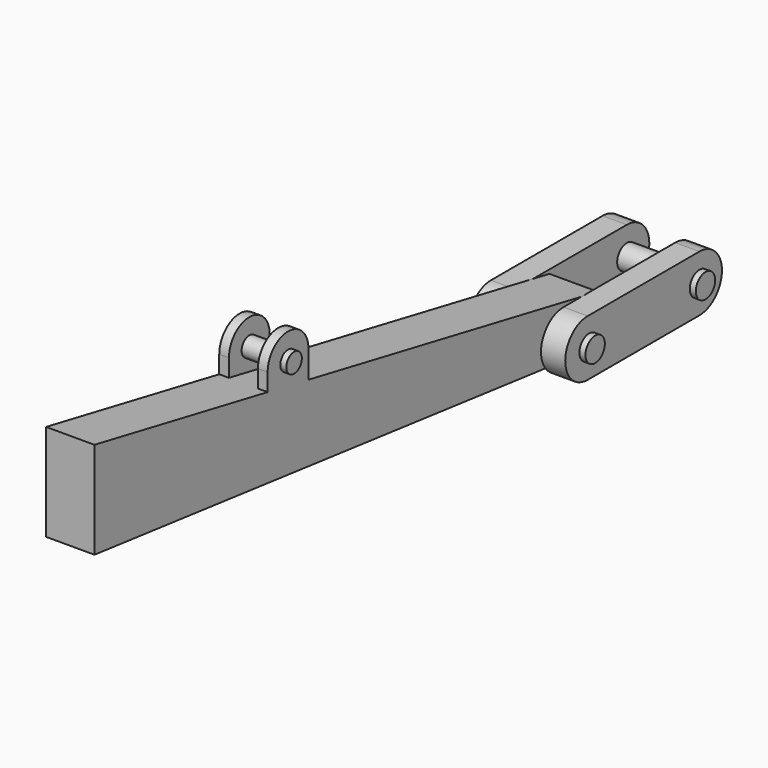
from build123d import *

# Parameters (mm, degrees)
PAD_DEPTH         = 0.1
PAD001_DEPTH      = 0.1
CYLINDER001_R     = 0.05
CYLINDER001_DEPTH = 0.45
PAD002_DEPTH      = 0.1
CYLINDER003_R     = 0.04
CYLINDER003_DEPTH = 0.25
PAD004_DEPTH      = 0.04
PAD003_DEPTH      = 0.1
PAD005_DEPTH      = 0.04
CYLINDER_R        = 0.05
CYLINDER_DEPTH    = 0.45


with BuildPart() as pad:
    # Sketch → Pad (new body, symmetric)
    with BuildSketch(Plane.YZ):
        Polygon((0, 0.6), (0, 0.2), (2.6, -0.1), (2.6, 0.1), align=None)
    extrude(amount=PAD_DEPTH, both=True)


with BuildPart() as pad001:
    # Sketch001 → Pad001 (new body)
    with BuildSketch(Plane.YZ.offset(0.1)):
        with BuildLine():
            ThreePointArc((2.422852, 0.116102), (2.306749, 0), (2.422851, -0.116102))
            Line((2.422851, -0.116102), (3.000007, -0.116102))
            ThreePointArc((3.000007, -0.116102), (3.116109, 0), (3.000007, 0.116102))
            Line((2.422852, 0.116102), (3.000007, 0.116102))
        make_face()
    extrude(amount=PAD001_DEPTH)


with BuildPart() as cylinder001:
    # Cylinder001 → Cylinder001 (new body)
    with BuildSketch(Plane(origin=(-0.225, 3, 0), x_dir=(0, 1, 0), z_dir=(1, 0, 0))):
        Circle(CYLINDER001_R)
    extrude(amount=CYLINDER001_DEPTH)


with BuildPart() as pad002:
    # Sketch002 → Pad002 (new body)
    with BuildSketch(Plane.YZ.offset(-0.2)):
        with BuildLine():
            ThreePointArc((2.422851, 0.116102), (2.306749, 0), (2.422851, -0.116102))
            Line((2.422851, -0.116102), (3.000007, -0.116102))
            ThreePointArc((3.000007, -0.116102), (3.116109, 0), (3.000007, 0.116102))
            Line((2.422851, 0.116102), (3.000007, 0.116102))
        make_face()
    extrude(amount=PAD002_DEPTH)


with BuildPart() as cylinder003:
    # Cylinder003 → Cylinder003 (new body)
    with BuildSketch(Plane(origin=(-0.125, 1, 0.5), x_dir=(0, 1, 0), z_dir=(1, 0, 0))):
        Circle(CYLINDER003_R)
    extrude(amount=CYLINDER003_DEPTH)


with BuildPart() as pad004:
    # Sketch004 → Pad004 (new body)
    with BuildSketch(Plane.YZ.offset(0.06)):
        with BuildLine():
            ThreePointArc((1.10511, 0.50089), (0.999811, 0.606189), (0.894512, 0.50089))
            Line((0.894512, 0.50089), (0.894512, 0.396579))
            ThreePointArc((0.894512, 0.396579), (0.999811, 0.29128), (1.10511, 0.396579))
            Line((1.10511, 0.50089), (1.10511, 0.396579))
        make_face()
    extrude(amount=PAD004_DEPTH)


with BuildPart() as fusion:
    # Sketch003 → Pad003 (new body, symmetric)
    with BuildSketch(Plane.YZ):
        Polygon((0, 0.6), (0, 0.2), (2.6, -0.1), (2.6, 0.1), align=None)
    extrude(amount=PAD003_DEPTH, both=True)

    # Fusion: union Pad004
    add(pad004.part)


with BuildPart() as pad005:
    # Sketch005 → Pad005 (new body)
    with BuildSketch(Plane.YZ.offset(-0.1)):
        with BuildLine():
            ThreePointArc((1.10511, 0.50089), (0.999811, 0.606189), (0.894512, 0.50089))
            Line((0.894512, 0.50089), (0.894512, 0.396579))
            ThreePointArc((0.894512, 0.396579), (0.999811, 0.29128), (1.10511, 0.396579))
            Line((1.10511, 0.50089), (1.10511, 0.396579))
        make_face()
    extrude(amount=PAD005_DEPTH)


with BuildPart() as fusion001:
    # Fusion001 base: copy of Pad005
    add(pad005.part)

    # Fusion001: union Fusion
    add(fusion.part)


with BuildPart() as fusion002:
    # Fusion002 base: copy of Pad005
    add(pad005.part)

    # Fusion002: union Fusion
    add(fusion.part)


with BuildPart() as cylinder:
    # Cylinder → Cylinder (new body)
    with BuildSketch(Plane(origin=(-0.225, 2.43, 0), x_dir=(0, 1, 0), z_dir=(1, 0, 0))):
        Circle(CYLINDER_R)
    extrude(amount=CYLINDER_DEPTH)


solid = Compound([pad.part, pad001.part, cylinder001.part, pad002.part, cylinder003.part, fusion001.part, fusion002.part, cylinder.part])
